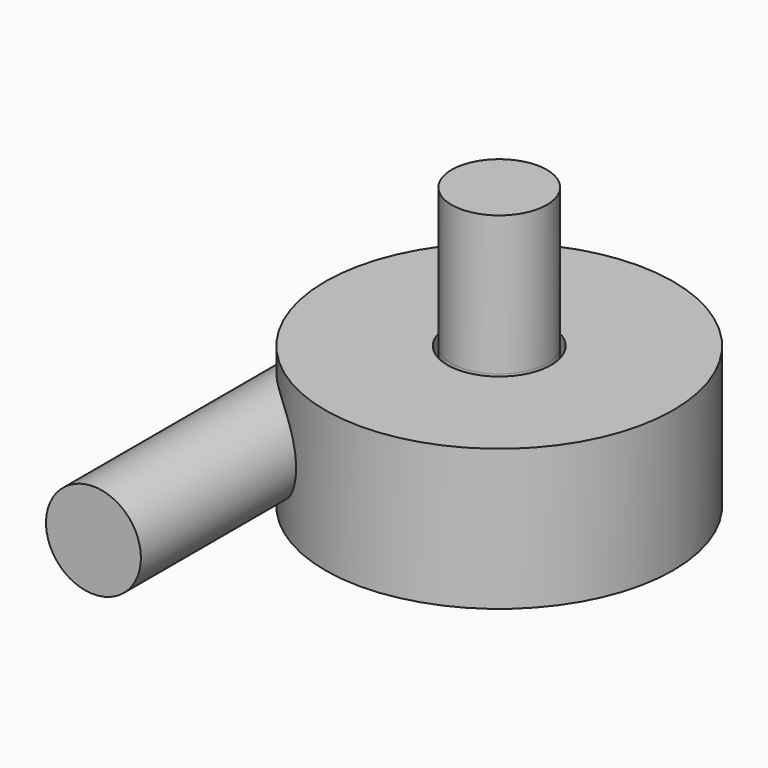
from build123d import *

# Parameters (mm, degrees)
F2_R      = 68
F3_DEPTH  = 500
F1_FACE_R = 68.2
F4_DEPTH  = 200


with BuildPart() as f1:
    # F0 (on Front) → F1 (revolve)
    with BuildSketch(Plane.XZ):
        Polygon((-249.4, 169), (-114, 169), (-112, 168), (-112, 156), (0, 156), (0, 371), (-68.2, 371), (-68.2, 250), (-74.4, 250), (-74.4, 371), (-249.4, 371), align=None)
    revolve(axis=Axis((0, 0, 263.5), (0, 0, -1)))

    # F2 (on Front) → F3 (join)
    with BuildSketch(Plane.XZ):
        with Locations((-181.4, 270)):
            Circle(F2_R)
    extrude(amount=F3_DEPTH)

    # F1_face (on face) → F4 (join)
    with BuildSketch(Plane.XY.offset(371)):
        Circle(F1_FACE_R)
    extrude(amount=F4_DEPTH)


solid = f1.part
